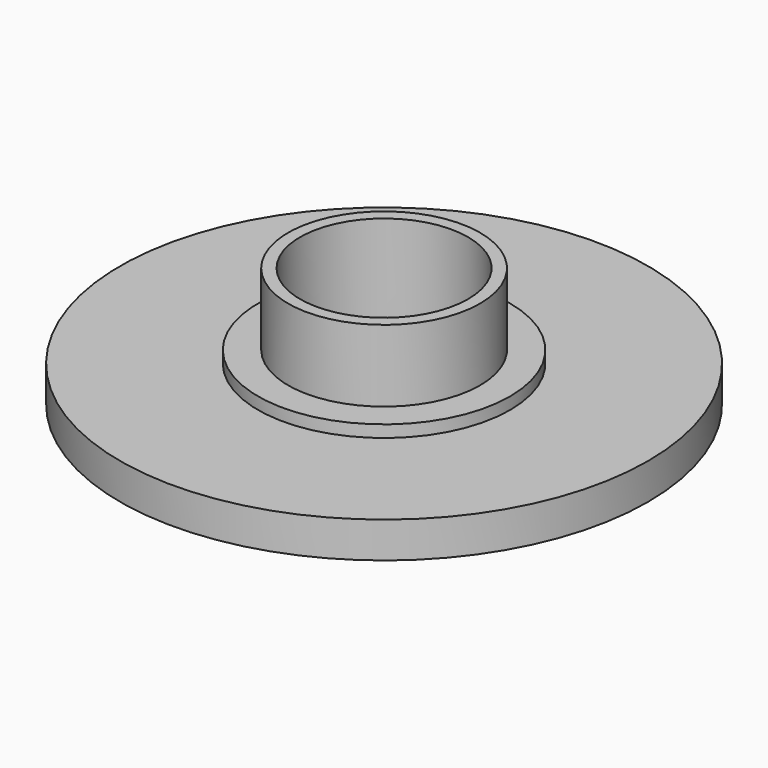
from build123d import *

# Parameters (mm, degrees)
F2_R     = 3.5
F3_DEPTH = 4


with BuildPart() as f1:
    # F0 (on Front) → F1 (revolve)
    with BuildSketch(Plane.XZ):
        Polygon((-0.819647, 0.5), (10.180353, 0), (10.180353, 1.5), (4.430353, 1.5), (4.430353, 2), (3.180353, 2), (3.180353, 5), (-0.819647, 5), align=None)
    revolve(axis=Axis((-0.819647, 0, 2.75), (0, 0, -1)))

    # F2 (on face) → F3 (cut)
    with BuildSketch(Plane.XY.offset(5)):
        with Locations((-0.819647, 0)):
            Circle(F2_R)
    extrude(amount=-F3_DEPTH, mode=Mode.SUBTRACT)


solid = f1.part
